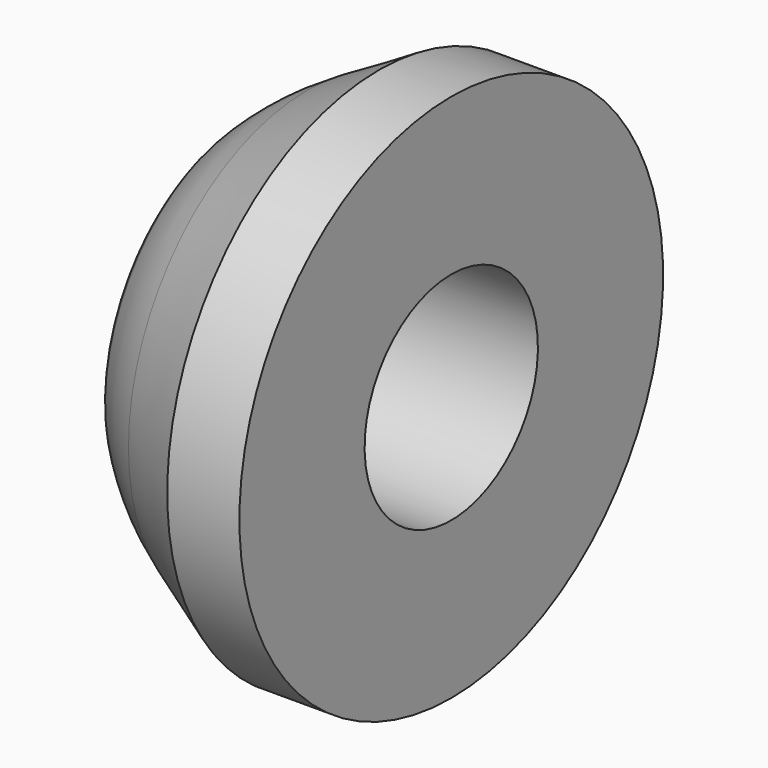
from build123d import *

# Parameters (mm, degrees)
F0_W = 1.5
F0_H = 3.25


with BuildPart() as f1:
    # F0 (on Front) → F1 (revolve)
    with BuildSketch(Plane.XZ):
        with BuildLine():
            Line((-9.269153, 7.75), (-9.269153, 11))
            Line((-9.269153, 11), (-10.758264, 10.144415))
            ThreePointArc((-10.758264, 10.144415), (-11.392868, 9.724113), (-11.969153, 9.226848))
            ThreePointArc((-11.969153, 9.226848), (-12.191108, 8.900003), (-12.269153, 8.512705))
            Line((-12.269153, 8.512705), (-12.269153, 7.75))
            Line((-12.269153, 7.75), (-9.269153, 7.75))
        make_face()
        with Locations((-8.519153, 9.375)):
            Rectangle(F0_W, F0_H)
    revolve(axis=Axis((-10.019153, 0, 5.5), (1, 0, 0)))


solid = f1.part
